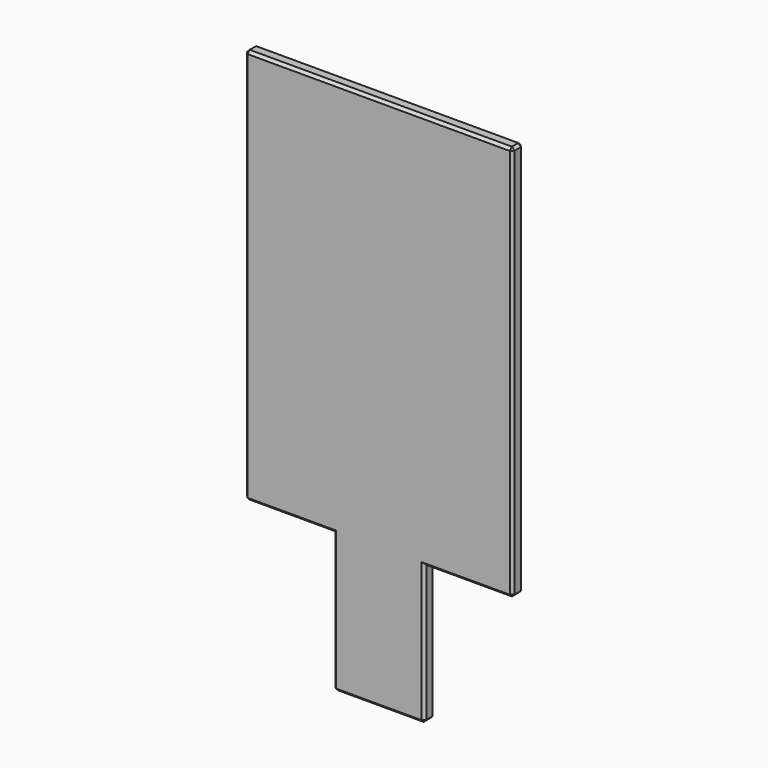
from build123d import *

# Parameters (mm, degrees)
F1_DEPTH = 5
F2_SIZE  = 1


with BuildPart() as f1:
    # F0 (on Front) → F1 (new body)
    with BuildSketch(Plane.XZ):
        Polygon((-20.028846, -71.897433), (13.971154, -71.897433), (13.971154, -19.897433), (46.971154, -19.897433), (46.971154, 128.102567), (-53.028846, 128.102567), (-53.028846, -19.897433), (-20.028846, -19.897433), align=None)
    extrude(amount=F1_DEPTH)

    # F2
    f2_edges = [f1.edges().sort_by_distance(p)[0] for p in [
        (-53.028846, -2.5, 128.102567),
        (-3.028846, -5, 128.102567),
        (-53.028846, -5, 54.102567),
        (-36.528846, -5, -19.897433),
        (-20.028846, -5, -45.897433),
        (-3.028846, -5, -71.897433),
        (13.971154, -5, -45.897433),
        (30.471154, -5, -19.897433),
        (46.971154, -5, 54.102567),
        (-3.028846, 0, 128.102567),
        (-53.028846, 0, 54.102567),
        (46.971154, 0, 54.102567),
        (30.471154, 0, -19.897433),
        (-36.528846, 0, -19.897433),
        (-20.028846, 0, -45.897433),
        (-3.028846, 0, -71.897433),
        (13.971154, 0, -45.897433),
        (46.971154, -2.5, -19.897433),
        (13.971154, -2.5, -71.897433),
        (-20.028846, -2.5, -71.897433),
        (-53.028846, -2.5, -19.897433),
        (46.971154, -2.5, 128.102567),
    ]]
    chamfer(f2_edges, length=F2_SIZE)


solid = f1.part
